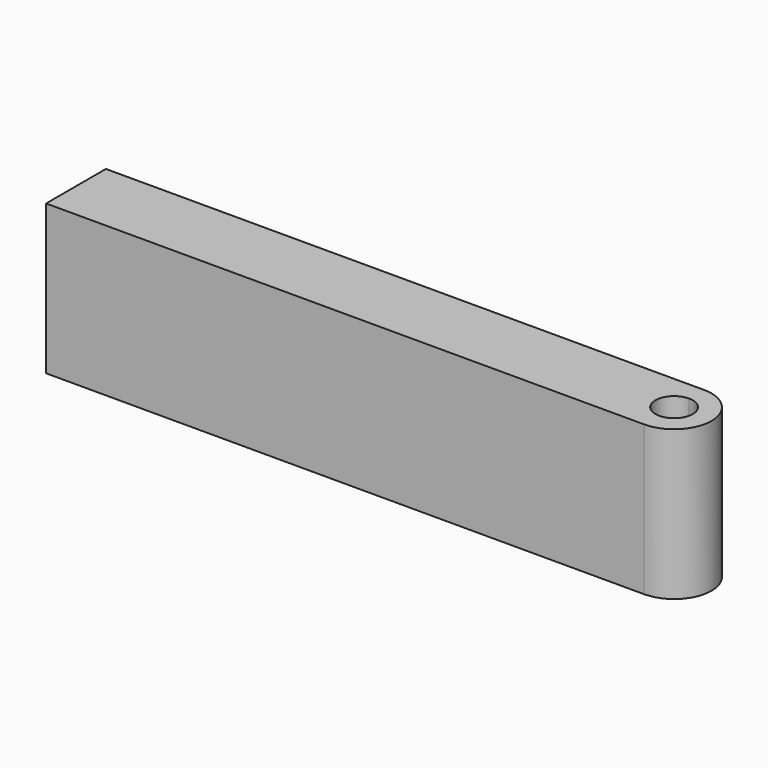
from build123d import *

# Parameters (mm, degrees)
F1_DEPTH = 25.4


with BuildPart() as f1:
    # F0 (on Top) → F1 (new body)
    with BuildSketch(Plane.XY):
        with BuildLine():
            Line((50.8, 6.35), (-50.8, 6.35))
            Line((-50.8, 6.35), (-50.8, -6.35))
            Line((-50.8, -6.35), (50.8, -6.35))
            Line((50.8, -6.35), (50.8, -3.175))
            ThreePointArc((50.8, -3.175), (47.625, 0), (50.8, 3.175))
            Line((50.8, 3.175), (50.8, 6.35))
        make_face()
        with BuildLine():
            ThreePointArc((50.8, -6.35), (57.15, 0), (50.8, 6.35))
            Line((50.8, 6.35), (50.8, 3.175))
            ThreePointArc((50.8, 3.175), (53.045064, 2.245064), (53.975, 0))
            ThreePointArc((53.975, 0), (53.045064, -2.245064), (50.8, -3.175))
            Line((50.8, -3.175), (50.8, -6.35))
        make_face()
    extrude(amount=F1_DEPTH)


solid = f1.part
